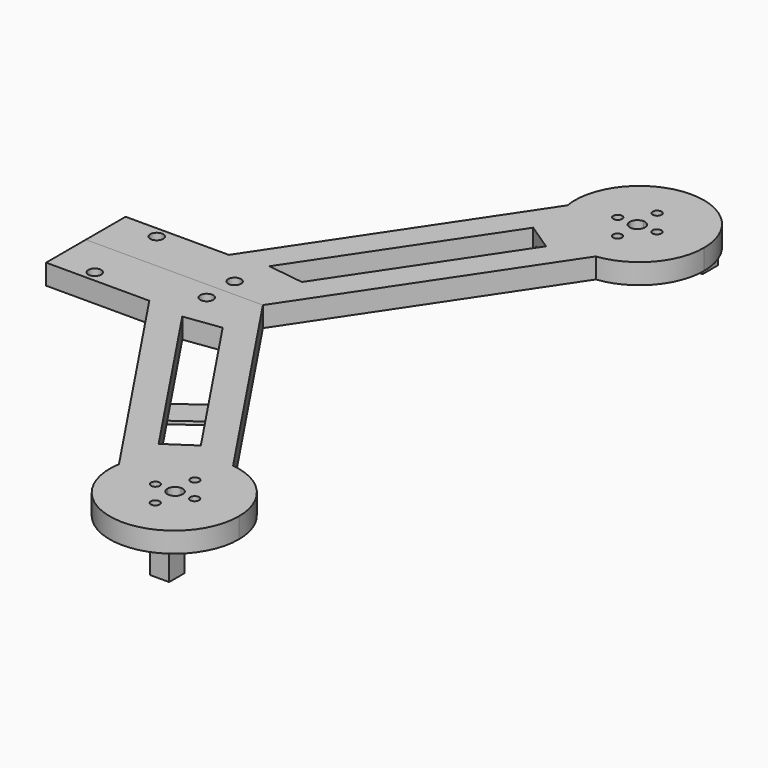
from build123d import *

# Parameters (mm, degrees)
F0_W     = 40.64
F0_H     = 19.5674088302
F1_DEPTH = 8.0000094
F2_R     = 2.54
F2_R_2   = 1.7305909
F3_DEPTH = 101.854
F5_DEPTH = 3
F7_DEPTH = 1.27
F8_W     = 7.5
F8_H     = 7.5
F8_W_2   = 4
F8_H_2   = 4
F9_DEPTH = 10


with BuildPart() as f1:
    # F0 (on Top) → F1 (new body)
    with BuildSketch(Plane.XY):
        with Locations((20.32, -9.7837044151)):
            Rectangle(F0_W, F0_H)
        with BuildLine():
            Line((69.7148357365, 0), (40.64, 0))
            Line((40.64, 0), (40.64, -19.5674088302))
            Line((40.64, -19.5674088302), (101.3413866648, -110.3658122135))
            ThreePointArc((101.3413866648, -110.3658122135), (111.1260073492, -94.18453836), (129.3799410465, -89.2483120652))
            Line((129.3799410465, -89.2483120652), (69.7148357365, 0))
        make_face()
        Polygon((69.4696214672, -19.4881020028), (113.231086272, -84.9474160699), (102.4144638083, -92.1786443526), (55.123848616, -21.4403533447), align=None, mode=Mode.SUBTRACT)
        with BuildLine():
            ThreePointArc((129.3799410465, -89.2483120652), (111.1260073492, -94.18453836), (101.3413866648, -110.3658122135))
            ThreePointArc((101.3413866648, -110.3658122135), (124.3462494405, -139.7899939485), (151.8070010567, -114.4737283713))
            ThreePointArc((151.8070010567, -114.4737283713), (145.3895282296, -97.5970088402), (129.3799410465, -89.2483120652))
        make_face()
    extrude(amount=F1_DEPTH)

    # F2 (on Top) → F3 (cut)
    with BuildSketch(Plane.XY):
        with Locations((15.7056836, -15.2410668)):
            Circle(F2_R)
        with BuildLine():
            Line((126.1456662068, -113.7635194558), (129.1456602068, -113.7635194558))
            ThreePointArc((129.1456602068, -113.7635194558), (128.2669823077, -111.6422033549), (126.1456662068, -110.7635254558))
            Line((126.1456662068, -110.7635254558), (126.1456662068, -113.7635194558))
        make_face()
        with BuildLine():
            ThreePointArc((127.8762571068, -123.5095248558), (127.3693787677, -122.285812295), (126.1456662068, -121.7789339558))
            ThreePointArc((126.1456662068, -121.7789339558), (124.921953646, -124.7332374167), (127.8762571068, -123.5095248558))
        make_face()
        with Locations((118.4114652668, -113.7635194558)):
            Circle(F2_R_2)
        with BuildLine():
            ThreePointArc((127.8762571068, -104.0175140558), (124.921953646, -102.793801495), (126.1456662068, -105.7481049558))
            ThreePointArc((126.1456662068, -105.7481049558), (127.3693787677, -105.2412266167), (127.8762571068, -104.0175140558))
        make_face()
        with BuildLine():
            ThreePointArc((126.1456662068, -116.7635134558), (128.2669823077, -115.8848355568), (129.1456602068, -113.7635194558))
            Line((129.1456602068, -113.7635194558), (126.1456662068, -113.7635194558))
            Line((126.1456662068, -113.7635194558), (126.1456662068, -116.7635134558))
        make_face()
        with BuildLine():
            ThreePointArc((135.6104580468, -113.7635194558), (133.8798671468, -112.0329285558), (132.1492762468, -113.7635194558))
            ThreePointArc((132.1492762468, -113.7635194558), (133.8798671468, -115.4941103558), (135.6104580468, -113.7635194558))
        make_face()
        with BuildLine():
            Line((126.1456662068, -113.7635194558), (126.1456662068, -110.7635254558))
            ThreePointArc((126.1456662068, -110.7635254558), (124.0243501059, -111.6422033549), (123.1456722068, -113.7635194558))
            Line((123.1456722068, -113.7635194558), (126.1456662068, -113.7635194558))
        make_face()
        with BuildLine():
            ThreePointArc((123.1456722068, -113.7635194558), (124.0243501059, -115.8848355568), (126.1456662068, -116.7635134558))
            Line((126.1456662068, -116.7635134558), (126.1456662068, -113.7635194558))
            Line((126.1456662068, -113.7635194558), (123.1456722068, -113.7635194558))
        make_face()
        with Locations((53.08092, -6.8674)):
            Circle(F2_R)
    extrude(amount=F3_DEPTH, mode=Mode.SUBTRACT)

    # F4 (on Top) → F5 (cut)
    with BuildSketch(Plane.XY):
        with BuildLine():
            ThreePointArc((113.3543175896, -104.9811791667), (121.5057123257, -128.0953658898), (141.2140740061, -113.5251447558))
            ThreePointArc((141.2140740061, -113.5251447558), (135.5093324535, -101.6366441633), (122.6659839352, -98.6485140861))
            Line((122.6659839352, -98.6485140861), (113.3844923675, -105.0308045977))
            Line((113.3844923675, -105.0308045977), (113.3543175896, -104.9811791667))
        make_face()
        with BuildLine():
            Line((113.3844923675, -105.0308045977), (122.6659839352, -98.6485140861))
            ThreePointArc((122.6659839352, -98.6485140861), (117.4037919112, -100.9232455016), (113.3543175896, -104.9811791667))
            Line((113.3543175896, -104.9811791667), (113.3844923675, -105.0308045977))
        make_face()
        with BuildLine():
            ThreePointArc((113.3543175896, -104.9811791667), (117.4037919112, -100.9232455016), (122.6659839352, -98.6485140861))
            Line((122.6659839352, -98.6485140861), (112.1151074767, -84.8500952125))
            Line((112.1151074767, -84.8500952125), (104.2779775574, -90.0542329821))
            Line((104.2779775574, -90.0542329821), (113.3543175896, -104.9811791667))
        make_face()
    extrude(amount=F5_DEPTH, mode=Mode.SUBTRACT)

    # F6 (on Top) → F7 (join)
    with BuildSketch(Plane.XY):
        Polygon((73.5100944723, -61.0887857915), (80.1020091825, -70.1919157745), (100.2806708766, -55.5797969646), (93.6887561665, -46.4766669816), align=None)
    extrude(amount=-F7_DEPTH)

    # F8 (on face) → F9 (join)
    with BuildSketch(Plane(origin=(0, 0, 0), x_dir=(1, 0, 0), z_dir=(0, 0, -1))):
        with Locations((137.0798796415, 131.2868020968)):
            Rectangle(F8_W, F8_H)
        with Locations((137.0798796415, 131.2868020968)):
            Rectangle(F8_W_2, F8_H_2, mode=Mode.SUBTRACT)
    extrude(amount=F9_DEPTH)


with BuildPart() as f10_1:
    # F10: instance of F1
    add(f1.part.mirror(Plane(origin=(34.8574178682, 0, 4.0000047), x_dir=(-1, 0, 0), z_dir=(0, 1, 0))))


solid = Compound([f1.part, f10_1.part])
